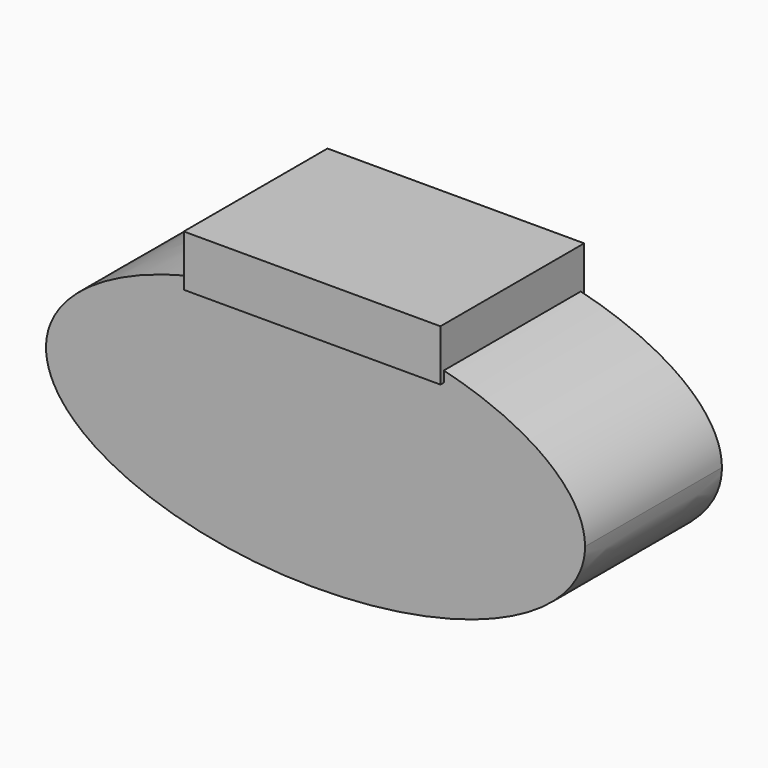
from build123d import *

# Parameters (mm, degrees)
F1_DEPTH = 40
F3_W     = 60
F3_H     = 12
F4_DEPTH = 21


with BuildPart() as f1:
    # F0 (on Front) → F1 (new body)
    with BuildSketch(Plane.XZ):
        with BuildLine():
            add(Edge.make_bspline(
                [(63, 0), (63, 50.2294734195), (-31.5, 25.1147367097), (-126, 0), (-31.5, -25.1147367097), (63, -50.2294734195), (63, 0)],
                knots=[0, 0, 0, 2.0943951024, 2.0943951024, 4.1887902048, 4.1887902048, 6.2831853072, 6.2831853072, 6.2831853072], degree=2, weights=[1, 0.5, 1, 0.5, 1, 0.5, 1]))
        make_face()
    extrude(amount=F1_DEPTH)

    # F3 (on offset) → F4 (join, symmetric)
    with BuildSketch(Plane.XZ.offset(20)):
        with Locations((0, 29)):
            Rectangle(F3_W, F3_H)
    extrude(amount=F4_DEPTH, both=True)


solid = f1.part
